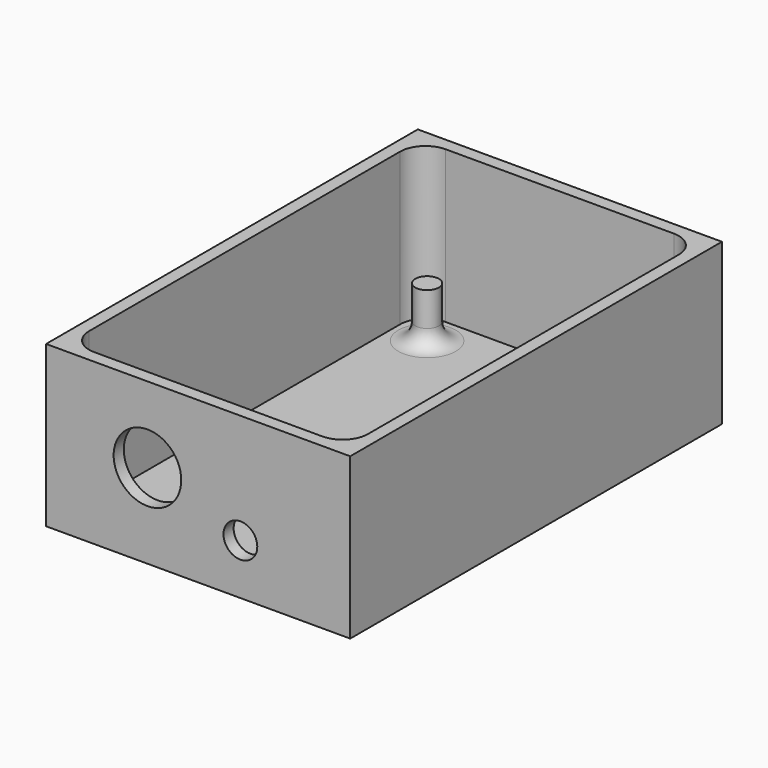
from build123d import *

# Parameters (mm, degrees)
SKETCH_W        = 36
SKETCH_H        = 55
PAD_DEPTH       = 19
SKETCH001_W     = 33
SKETCH001_H     = 52
POCKET_DEPTH    = 18
SKETCH002_R     = 1.4
PAD001_DEPTH    = 6
SKETCH003_R     = 4
SKETCH003_R_2   = 2
POCKET001_DEPTH = 1.5
FILLET_R        = 2
FILLET001_R     = 3


with BuildPart() as part:
    # Sketch → Pad (new body)
    with BuildSketch(Plane.XY):
        Rectangle(SKETCH_W, SKETCH_H)
    extrude(amount=PAD_DEPTH)

    # Sketch001 (on Face6 of Pad) → Pocket (cut)
    with BuildSketch(Plane.XY.offset(19)):
        Rectangle(SKETCH001_W, SKETCH001_H)
    extrude(amount=-POCKET_DEPTH, mode=Mode.SUBTRACT)

    # Sketch002 (on Face11 of Pocket) → Pad001 (join)
    with BuildSketch(Plane.XY.offset(1)):
        with Locations((-12.5, 22)):
            Circle(SKETCH002_R)
    pad001 = extrude(amount=PAD001_DEPTH)

    # Mirrored: Pad001 across Sketch002 V_Axis
    add(pad001.mirror(Plane(origin=(0, 0, 1), x_dir=(0, 0, 1), z_dir=(1, 0, 0))))

    # Sketch003 (on Face6 of Mirrored) → Pocket001 (cut)
    with BuildSketch(Plane.XZ.offset(27.5)):
        with Locations((-6, 10)):
            Circle(SKETCH003_R)
        with Locations((5, 6)):
            Circle(SKETCH003_R_2)
    extrude(amount=-POCKET001_DEPTH, mode=Mode.SUBTRACT)

    # Fillet
    fillet_edges = [part.edges().sort_by_distance(p)[0] for p in [
        (-13.9, 22, 1),
        (13.9, 22, 1),
    ]]
    fillet(fillet_edges, radius=FILLET_R)

    # Fillet001
    fillet001_edges = [part.edges().sort_by_distance(p)[0] for p in [
        (-16.5, 26, 10),
        (-16.5, -26, 10),
        (16.5, -26, 10),
        (16.5, 26, 10),
    ]]
    fillet(fillet001_edges, radius=FILLET001_R)


solid = part.part
